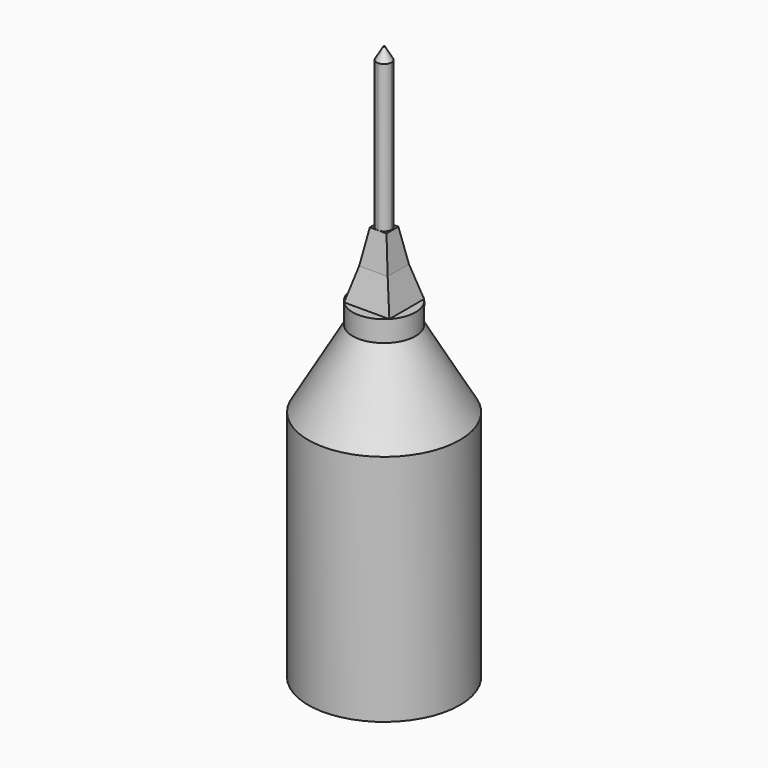
from build123d import *

# Parameters (mm, degrees)
F0_R       = 65
F1_DEPTH   = 200
F2_R       = 65
F3_DEPTH   = 66
F3_TAPER   = 30
F4_R       = 26.8948822335
F5_DEPTH   = 18
F6_W       = 38.8136626348
F6_H       = 37.2402786548
F7_DEPTH   = 26.9
F7_TAPER   = 15
F7_FACE_W  = 24.397996082
F7_FACE_H  = 22.824612102
F8_DEPTH   = 28.7
F8_TAPER   = 10
F10_DEPTH  = 126.2
F11_R      = 6.3517217046
F10_FACE_R = 6.3517217046
F12_DEPTH  = 10
F12_TAPER  = 30


with BuildPart() as f1:
    # F0 (on Top) → F1 (new body)
    with BuildSketch(Plane.XY):
        Circle(F0_R)
    extrude(amount=F1_DEPTH)

    # F2 (on face) → F3 (join)
    with BuildSketch(Plane.XY.offset(200)):
        Circle(F2_R)
    extrude(amount=F3_DEPTH, taper=F3_TAPER)

    # F4 (on face) → F5 (join)
    with BuildSketch(Plane.XY.offset(266)):
        Circle(F4_R)
    extrude(amount=F5_DEPTH)

    # F6 (on face) → F7 (join)
    with BuildSketch(Plane.XY.offset(284)):
        Rectangle(F6_W, F6_H)
    extrude(amount=F7_DEPTH, taper=F7_TAPER)

    # F7_face (on face) → F8 (join)
    with BuildSketch(Plane.XY.offset(310.9)):
        Rectangle(F7_FACE_W, F7_FACE_H)
    extrude(amount=F8_DEPTH, taper=F8_TAPER)

    # F9 (on face) → F10 (join)
    with BuildSketch(Plane.XY.offset(339.6)):
        with BuildLine():
            ThreePointArc((0, -6.3517217046), (4.4913454896, -4.4913454896), (6.3517217046, 0))
            ThreePointArc((6.3517217046, 0), (4.4913454896, 4.4913454896), (0, 6.3517217046))
            ThreePointArc((0, 6.3517217046), (-6.3517217046, 0), (0, -6.3517217046))
        make_face()
    extrude(amount=F10_DEPTH)

    # F11 (on face) + F10_face (on face) → F12 (join)
    with BuildSketch(Plane.XY.offset(465.8)):
        Circle(F11_R)
    with BuildSketch(Plane.XY.offset(465.8)):
        Circle(F10_FACE_R)
    extrude(amount=F12_DEPTH, taper=F12_TAPER)


solid = f1.part
